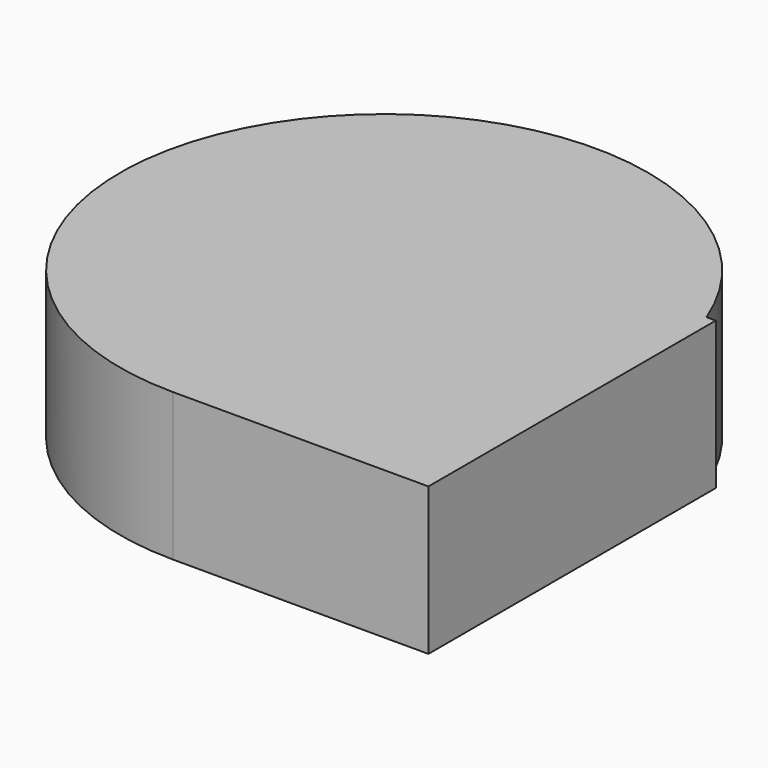
from build123d import *

# Parameters (mm, degrees)
F1_START = -25.4
F0_W     = 75.2531588078
F0_H     = 58.5936785935
F0_H_2   = 38.7312471867
F1_DEPTH = 43.434


with BuildPart() as f1:
    # F0 (on Top) → F1 (new body)
    with BuildSketch(Plane.XY.offset(F1_START)):
        with BuildLine():
            ThreePointArc((72.5227203866, 47.205761075), (74.0093370077, 43.0076176609), (75.2531588078, 38.7312471867))
            Line((75.2531588078, 38.7312471867), (75.2531588078, 47.205761075))
            Line((75.2531588078, 47.205761075), (72.5227203866, 47.205761075))
        make_face()
        with Locations((37.6265794039, -29.2968392967)):
            Rectangle(F0_W, F0_H)
        with Locations((37.6265794039, 19.3656235933)):
            Rectangle(F0_W, F0_H_2)
        with BuildLine():
            Line((0, 47.205761075), (0, 38.7312471867))
            Line((0, 38.7312471867), (75.2531588078, 38.7312471867))
            ThreePointArc((75.2531588078, 38.7312471867), (74.0093370077, 43.0076176609), (72.5227203866, 47.205761075))
            Line((72.5227203866, 47.205761075), (0, 47.205761075))
        make_face()
        with BuildLine():
            Line((0, -58.5936785935), (0, 0))
            Line((0, 0), (0, 38.7312471867))
            Line((0, 38.7312471867), (0, 47.205761075))
            Line((0, 47.205761075), (72.5227203866, 47.205761075))
            ThreePointArc((72.5227203866, 47.205761075), (-64.1347534618, 63.1249244156), (0, -58.5936785935))
        make_face()
    extrude(amount=-F1_DEPTH)


solid = f1.part
